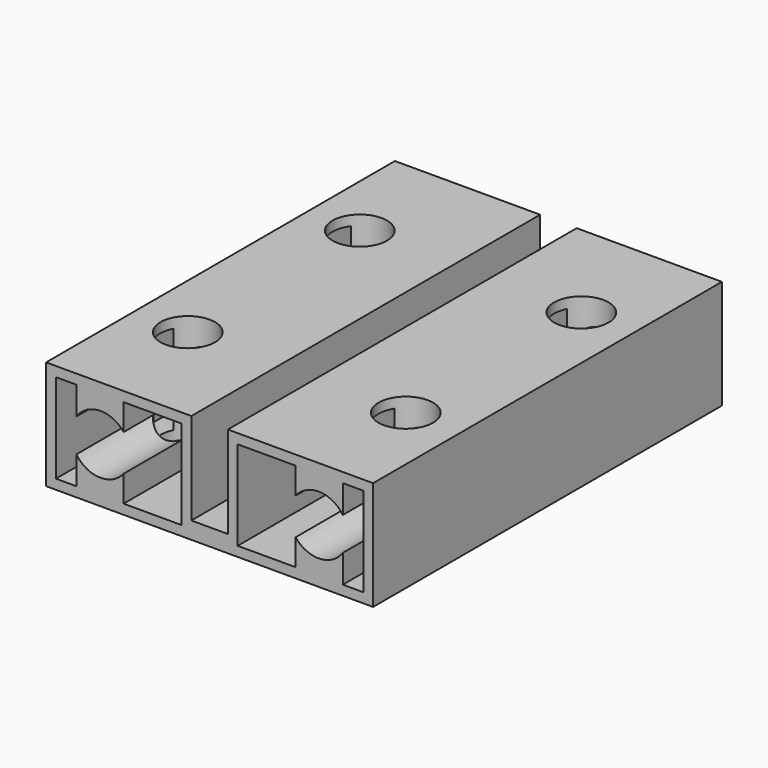
from build123d import *

# Parameters (mm, degrees)
F1_DEPTH = 32
F2_R     = 2
F3_DEPTH = 8.1


with BuildPart() as f1:
    # F0 (on Front) → F1 (new body)
    with BuildSketch(Plane.XZ):
        Polygon((-1.34, 4), (-12, 4), (-12, -4), (12, -4), (12, 4), (1.34, 4), (1.34, -2.75), (-1.34, -2.75), align=None)
        Polygon((-6.31, 3.28), (-2.06, 3.28), (-2.06, -3.28), (-6.31, -3.28), (-9.78, -3.28), (-11.28, -3.28), (-11.28, 3.28), (-9.78, 3.28), align=None, mode=Mode.SUBTRACT)
        Polygon((11.28, 3.28), (11.28, -3.28), (9.78, -3.28), (6.31, -3.28), (2.06, -3.28), (2.06, 3.28), (6.31, 3.28), (9.78, 3.28), align=None, mode=Mode.SUBTRACT)
        with BuildLine():
            Line((-6.31, 1.345177), (-6.31, 3.28))
            Line((-6.31, 3.28), (-9.78, 3.28))
            Line((-9.78, 3.28), (-9.78, 1.223601))
            ThreePointArc((-9.78, 1.223601), (-8.075632, 2.158675), (-6.31, 1.345177))
        make_face()
        with BuildLine():
            Line((-9.78, -3.28), (-6.31, -3.28))
            Line((-6.31, -3.28), (-6.31, -1.345177))
            ThreePointArc((-6.31, -1.345177), (-8.075632, -2.158675), (-9.78, -1.223601))
            Line((-9.78, -1.223601), (-9.78, -3.28))
        make_face()
        with BuildLine():
            Line((9.78, 1.223601), (9.78, 3.28))
            Line((9.78, 3.28), (6.31, 3.28))
            Line((6.31, 3.28), (6.31, 1.345177))
            ThreePointArc((6.31, 1.345177), (8.075632, 2.158675), (9.78, 1.223601))
        make_face()
        with BuildLine():
            Line((6.31, -3.28), (9.78, -3.28))
            Line((9.78, -3.28), (9.78, -1.223601))
            ThreePointArc((9.78, -1.223601), (8.075632, -2.158675), (6.31, -1.345177))
            Line((6.31, -1.345177), (6.31, -3.28))
        make_face()
    extrude(amount=F1_DEPTH)

    # F2 (on face) → F3 (cut)
    with BuildSketch(Plane.XY.offset(4)):
        with Locations((-8, -24)):
            Circle(F2_R)
        with Locations((8, -24)):
            Circle(F2_R)
        with Locations((-8.176223, -8)):
            Circle(F2_R)
        with Locations((8.085492, -8)):
            Circle(F2_R)
    extrude(amount=-F3_DEPTH, mode=Mode.SUBTRACT)


solid = f1.part
